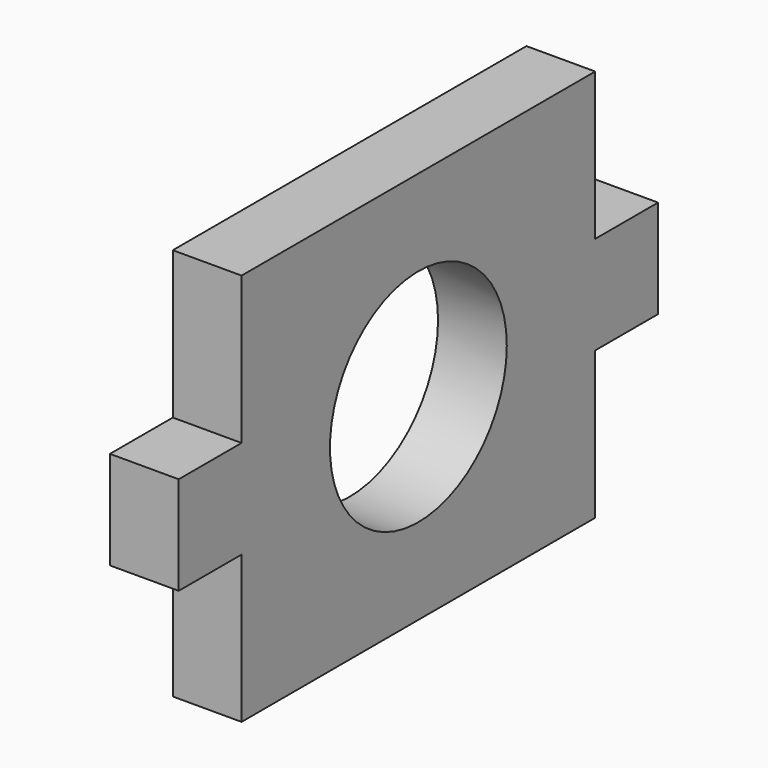
from build123d import *

# Parameters (mm, degrees)
F0_R     = 11.25
F1_DEPTH = 7


with BuildPart() as f1:
    # F0 (on Right) → F1 (new body)
    with BuildSketch(Plane.YZ):
        Polygon((0, 15), (0, 0), (45, 0), (45, 15), (53, 15), (53, 25), (45, 25), (45, 40), (0, 40), (0, 25), (-8, 25), (-8, 15), align=None)
        with Locations((22.5, 20)):
            Circle(F0_R, mode=Mode.SUBTRACT)
    extrude(amount=F1_DEPTH)


solid = f1.part
